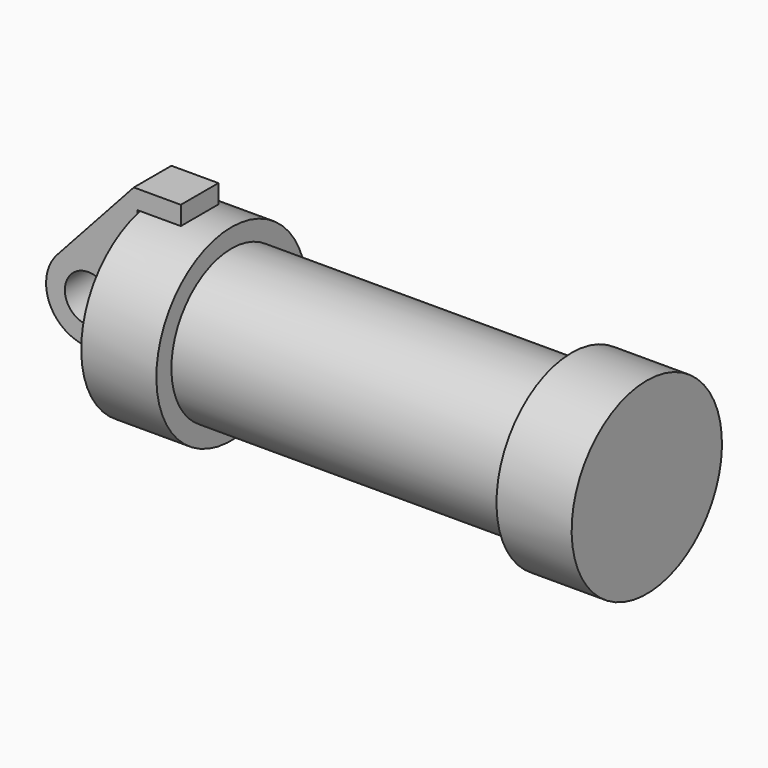
from build123d import *

# Parameters (mm, degrees)
F0_R     = 3.175
F1_DEPTH = 3.175
F0_W     = 5.842
F0_H     = 12.7


with BuildPart() as f1:
    # F0 (on Front) → F1 (new body, symmetric)
    with BuildSketch(Plane.XZ):
        with BuildLine():
            Line((-0.9398, 0), (0, 0))
            Line((0, 0), (0, 12.7))
            Line((0, 12.7), (5.842, 12.7))
            Line((5.842, 12.7), (5.842, 15.24))
            Line((5.842, 15.24), (-0.508, 15.24))
            Line((-0.508, 15.24), (-10.88063, 3.847543))
            ThreePointArc((-10.88063, 3.847543), (-4.591961, 5.329721), (-0.9398, 0))
        make_face()
        with BuildLine():
            ThreePointArc((-8.182663, -5.506983), (-3.195791, -4.549339), (-0.9398, 0))
            ThreePointArc((-0.9398, 0), (-4.591961, 5.329721), (-10.88063, 3.847543))
            ThreePointArc((-10.88063, 3.847543), (-12.145978, -1.583727), (-8.182663, -5.506983))
        make_face()
        with Locations((-6.6548, 0)):
            Circle(F0_R, mode=Mode.SUBTRACT)
        with BuildLine():
            Line((5.842, 0), (0, 0))
            Line((0, 0), (-0.9398, 0))
            ThreePointArc((-0.9398, 0), (-3.195791, -4.549339), (-8.182663, -5.506983))
            Line((-8.182663, -5.506983), (5.842, -9.398))
            Line((5.842, -9.398), (5.842, 0))
        make_face()
    extrude(amount=F1_DEPTH, both=True)


with BuildPart() as f2:
    # F0 (on Front) → F2 (revolve)
    with BuildSketch(Plane.XZ):
        Polygon((5.842, 12.7), (5.842, 0), (66.294, 0), (66.294, 12.7), (56.134, 12.7), (56.134, 10.16), (10.16, 10.16), (10.16, 12.7), align=None)
        with Locations((2.921, 6.35)):
            Rectangle(F0_W, F0_H)
    revolve(axis=Axis((33.147, 0, 0), (-1, 0, 0)))


solid = Compound([f1.part, f2.part])
